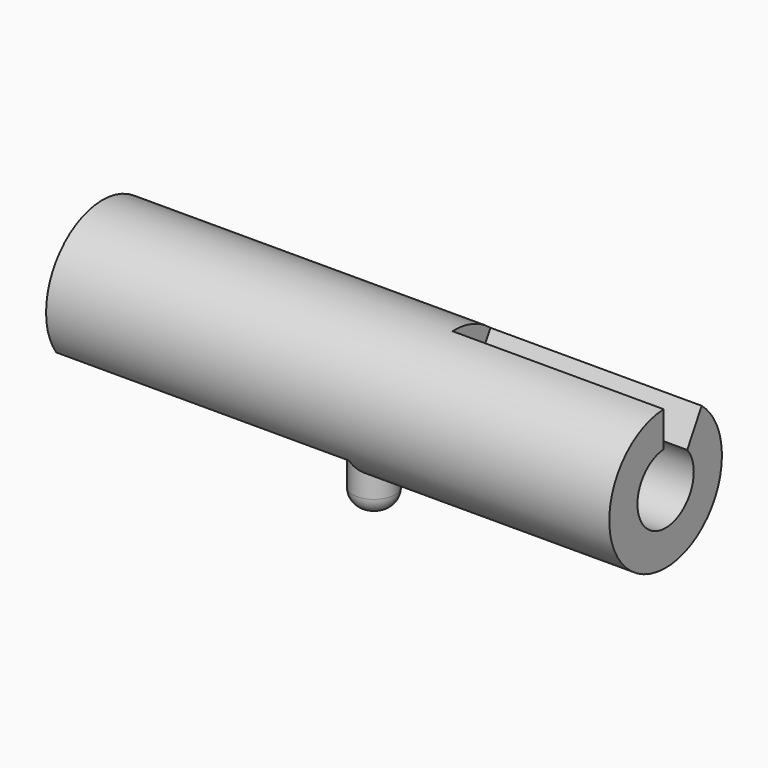
from build123d import *

# Parameters (mm, degrees)
F0_R      = 6.35
F1_DEPTH  = 50.8
F2_R      = 3.175
F3_DEPTH  = 50.8
F5_DEPTH  = 25.4
F6_DEPTH  = 6.35
F8_DEPTH  = 25.4
F9_R      = 1.905
F10_DEPTH = 6.35
F11_R     = 1.524


with BuildPart() as f1:
    # F0 (on Right) → F1 (new body)
    with BuildSketch(Plane.YZ):
        with Locations((-34.1159366071, 29.0391650051)):
            Circle(F0_R)
    extrude(amount=F1_DEPTH)

    # F2 (on face) → F3 (cut)
    with BuildSketch(Plane.YZ.offset(50.8)):
        with Locations((-34.1159366071, 29.0391650051)):
            Circle(F2_R)
    extrude(amount=-F3_DEPTH, mode=Mode.SUBTRACT)

    # F4 (on face) → F5 (cut)
    with BuildSketch(Plane.YZ.offset(50.8)):
        with BuildLine():
            Line((-34.3332342946, 35.3854459408), (-34.3332342946, 32.2067203266))
            ThreePointArc((-34.3332342946, 32.2067203266), (-32.8684364804, 31.9588171134), (-31.6767708735, 31.0716746666))
            Line((-31.6767708735, 31.0716746666), (-30.0509194022, 33.9174982372))
            ThreePointArc((-30.0509194022, 33.9174982372), (-32.0568217521, 35.0460399009), (-34.3332342946, 35.3854459408))
        make_face()
    extrude(amount=-F5_DEPTH, mode=Mode.SUBTRACT)

    # F6 (add): a face of the model
    f6_faces = [f1.faces().sort_by_distance(p)[0] for p in [
        (25.4, -32.4787047197, 33.4953797207),
    ]]
    extrude(f6_faces, amount=F6_DEPTH)

    # F7 (on Top) → F8 (cut)
    with BuildSketch(Plane.XY):
        Polygon((26.3992380351, -40.6142137945), (26.3992380351, -26.3992380351), (17.2610413283, -26.1961687356), (17.2610413283, -40.6142137945), align=None)
        Polygon((17.2610413283, -40.6142137945), (17.2610413283, -26.1961687356), (0, -25.8125933232), (0, -40.6142137945), (3.2189439517, -40.6142137945), align=None)
    extrude(amount=F8_DEPTH, mode=Mode.SUBTRACT)


with BuildPart() as f10:
    # F9 (on face) → F10 (new body)
    with BuildSketch(Plane(origin=(0, 0, 25.4), x_dir=(1, 0, 0), z_dir=(0, 0, -1))):
        with Locations((24.4942380351, 34.1159366071)):
            Circle(F9_R)
    extrude(amount=F10_DEPTH)

    # F11
    f11_edges = [f10.edges().sort_by_distance(p)[0] for p in [
        (22.589238, -34.115937, 19.05),
    ]]
    fillet(f11_edges, radius=F11_R)


solid = Compound([f1.part, f10.part])
